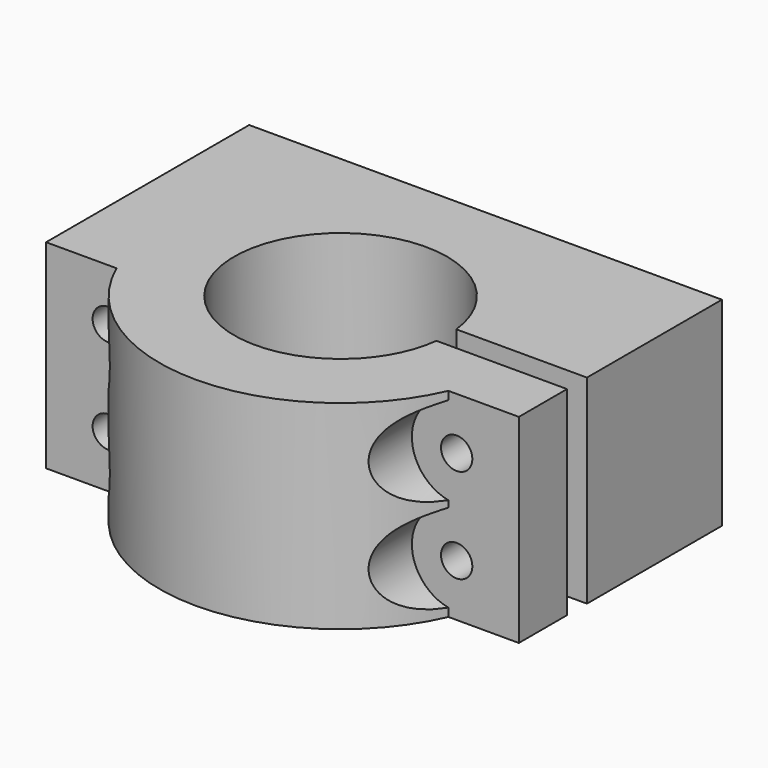
from build123d import *

# Parameters (mm, degrees)
F1_DEPTH = 40
F2_R     = 3.15
F3_DEPTH = 72.801
F4_START = -51
F2_R_2   = 9
F4_DEPTH = 21.8010001


with BuildPart() as f1:
    # F0 (on Top) → F1 (new body)
    with BuildSketch(Plane.XY):
        with BuildLine():
            Line((-47.5, -25.5), (-33.3436650655, -25.5))
            ThreePointArc((-33.3436650655, -25.5), (-30.4663749074, 9.0188353073), (0, 25.5))
            Line((0, 25.5), (-47.5, 25.5))
            Line((-47.5, 25.5), (-47.5, -25.5))
        make_face()
        with BuildLine():
            Line((36.3140468689, -8.4), (47.5, -8.4))
            Line((47.5, -8.4), (47.5, 25.5))
            Line((47.5, 25.5), (0, 25.5))
            ThreePointArc((0, 25.5), (24.8390821086, 15.7078935656), (36.3140468689, -8.4))
        make_face()
        with BuildLine():
            ThreePointArc((0, 25.5), (-30.4663749074, 9.0188353073), (-33.3436650655, -25.5))
            Line((-33.3436650655, -25.5), (-15.6460857725, -25.5))
            ThreePointArc((-15.6460857725, -25.5), (-8.9979547856, 8.5164056838), (21.2534703049, -8.4))
            Line((21.2534703049, -8.4), (36.3140468689, -8.4))
            ThreePointArc((36.3140468689, -8.4), (24.8390821086, 15.7078935656), (0, 25.5))
        make_face()
        with BuildLine():
            Line((15.6460857725, -25.5), (33.3436650655, -25.5))
            ThreePointArc((33.3436650655, -25.5), (35.3504131233, -19.5780350319), (36.3140468689, -13.4))
            Line((36.3140468689, -13.4), (21.2534703049, -13.4))
            ThreePointArc((21.2534703049, -13.4), (19.4164056838, -19.8979547856), (15.6460857725, -25.5))
        make_face()
        with BuildLine():
            ThreePointArc((-33.3436650655, -25.5), (0, -47.3), (33.3436650655, -25.5))
            Line((33.3436650655, -25.5), (15.6460857725, -25.5))
            ThreePointArc((15.6460857725, -25.5), (0, -32.3), (-15.6460857725, -25.5))
            Line((-15.6460857725, -25.5), (-33.3436650655, -25.5))
        make_face()
        with BuildLine():
            Line((33.3436650655, -25.5), (47.5, -25.5))
            Line((47.5, -25.5), (47.5, -13.4))
            Line((47.5, -13.4), (36.3140468689, -13.4))
            ThreePointArc((36.3140468689, -13.4), (35.3504131233, -19.5780350319), (33.3436650655, -25.5))
        make_face()
    extrude(amount=F1_DEPTH)

    # F2 (on face) → F3 (cut, through all)
    with BuildSketch(Plane(origin=(0, 25.5, 0), x_dir=(-1, 0, 0), z_dir=(0, 1, 0))):
        with Locations((-35, 29.5)):
            Circle(F2_R)
        with Locations((-35, 10.5)):
            Circle(F2_R)
        with Locations((35, 29.5)):
            Circle(F2_R)
        with Locations((35, 10.5)):
            Circle(F2_R)
    extrude(amount=-F3_DEPTH, mode=Mode.SUBTRACT)

    # F2 (on face) → F4 (cut)
    with BuildSketch(Plane(origin=(0, 25.5, 0), x_dir=(-1, 0, 0), z_dir=(0, 1, 0)).offset(F4_START)):
        with Locations((-35, 29.5)):
            Circle(F2_R_2)
        with Locations((-35, 29.5)):
            Circle(F2_R, mode=Mode.SUBTRACT)
        with Locations((-35, 10.5)):
            Circle(F2_R_2)
        with Locations((-35, 10.5)):
            Circle(F2_R, mode=Mode.SUBTRACT)
        with Locations((35, 10.5)):
            Circle(F2_R_2)
        with Locations((35, 10.5)):
            Circle(F2_R, mode=Mode.SUBTRACT)
        with Locations((35, 29.5)):
            Circle(F2_R_2)
        with Locations((35, 29.5)):
            Circle(F2_R, mode=Mode.SUBTRACT)
    extrude(amount=-F4_DEPTH, mode=Mode.SUBTRACT)


solid = f1.part
